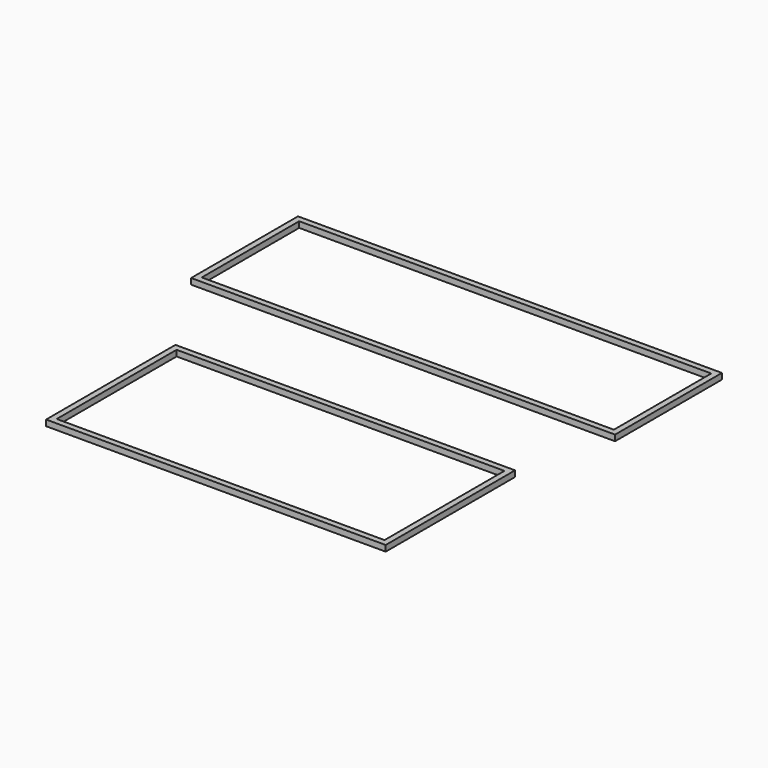
from build123d import *

# Parameters (mm, degrees)
SKETCH_W      = 143.7
SKETCH_H      = 45.27
SKETCH_W_2    = 139.7
SKETCH_H_2    = 41.27
PAD_DEPTH     = 2
SKETCH001_W   = 115.12
SKETCH001_H   = 54.8
SKETCH001_W_2 = 111.12
SKETCH001_H_2 = 50.8
PAD001_DEPTH  = 2


with BuildPart() as top:
    # Sketch → Pad (new body)
    with BuildSketch(Plane.XY):
        with Locations((19.656128, -8.841233)):
            Rectangle(SKETCH_W, SKETCH_H)
        with Locations((19.656128, -8.841233)):
            Rectangle(SKETCH_W_2, SKETCH_H_2, mode=Mode.SUBTRACT)
    extrude(amount=PAD_DEPTH)


with BuildPart() as bottom:
    # Sketch001 → Pad001 (new body)
    with BuildSketch(Plane.XY):
        with Locations((26.069892, -91.413854)):
            Rectangle(SKETCH001_W, SKETCH001_H)
        with Locations((26.069892, -91.413854)):
            Rectangle(SKETCH001_W_2, SKETCH001_H_2, mode=Mode.SUBTRACT)
    extrude(amount=PAD001_DEPTH)


solid = Compound([top.part, bottom.part])
